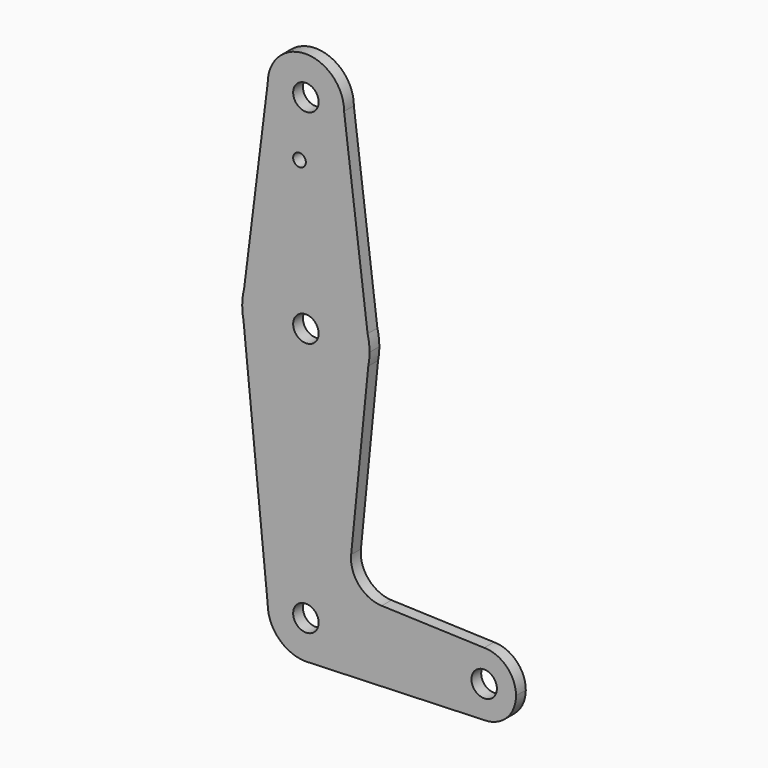
from build123d import *

# Parameters (mm, degrees)
F0_R     = 3.175
F0_R_2   = 1.5875
F1_DEPTH = 3.048


with BuildPart() as f1:
    # F0 (on Front) → F1 (new body)
    with BuildSketch(Plane.XZ):
        with BuildLine():
            ThreePointArc((-9.525, 114.3), (0, 104.775), (9.525, 114.3))
            ThreePointArc((9.525, 114.3), (0, 123.825), (-9.525, 114.3))
        make_face()
        with Locations((0, 114.3)):
            Circle(F0_R, mode=Mode.SUBTRACT)
        with BuildLine():
            Line((15.3865384615, 67.4076923077), (9.525, 114.3))
            ThreePointArc((9.525, 114.3), (0, 104.775), (-9.525, 114.3))
            Line((-9.525, 114.3), (-15.3865384615, 67.4076923077))
            ThreePointArc((-15.3865384615, 67.4076923077), (0, 79.375), (15.3865384615, 67.4076923077))
        make_face()
        with Locations((-1.5875, 100.0252)):
            Circle(F0_R_2, mode=Mode.SUBTRACT)
        with BuildLine():
            Line((15.875, 63.5), (15.3865384615, 67.4076923077))
            ThreePointArc((15.3865384615, 67.4076923077), (0, 79.375), (-15.3865384615, 67.4076923077))
            Line((-15.3865384615, 67.4076923077), (-15.875, 63.5))
            Line((-15.875, 63.5), (-15.5606435644, 60.3564356436))
            ThreePointArc((-15.5606435644, 60.3564356436), (0, 47.625), (15.5606435644, 60.3564356436))
            Line((15.5606435644, 60.3564356436), (15.875, 63.5))
        make_face()
        with Locations((0, 63.5)):
            Circle(F0_R, mode=Mode.SUBTRACT)
        with BuildLine():
            ThreePointArc((15.875, 63.5), (15.7524112928, 65.4690514116), (15.3865384615, 67.4076923077))
            Line((15.3865384615, 67.4076923077), (15.875, 63.5))
        make_face()
        with BuildLine():
            Line((-15.875, 63.5), (-15.3865384615, 67.4076923077))
            ThreePointArc((-15.3865384615, 67.4076923077), (-15.7524112928, 65.4690514116), (-15.875, 63.5))
        make_face()
        with BuildLine():
            ThreePointArc((15.5606435644, 60.3564356436), (15.7962153946, 61.9203784605), (15.875, 63.5))
            Line((15.875, 63.5), (15.5606435644, 60.3564356436))
        make_face()
        with BuildLine():
            Line((-15.5606435644, 60.3564356436), (-15.875, 63.5))
            ThreePointArc((-15.875, 63.5), (-15.7962153946, 61.9203784605), (-15.5606435644, 60.3564356436))
        make_face()
        with BuildLine():
            Line((11.2835831424, 17.5858314242), (15.5606435644, 60.3564356436))
            ThreePointArc((15.5606435644, 60.3564356436), (0, 47.625), (-15.5606435644, 60.3564356436))
            Line((-15.5606435644, 60.3564356436), (-9.525, 0))
            ThreePointArc((-9.525, 0), (0, 9.525), (9.525, 0))
            ThreePointArc((9.525, 0), (6.9712901065, -6.4905114784), (0.6794904459, -9.5007324841))
            Line((0.6794904459, -9.5007324841), (44.45, -7.9375))
            ThreePointArc((44.45, -7.9375), (36.5125, 0), (44.45, 7.9375))
            Line((44.45, 7.9375), (18.9105730062, 8.8496223926))
            ThreePointArc((18.9105730062, 8.8496223926), (13.2053552395, 11.5661923774), (11.2835831424, 17.5858314242))
        make_face()
        with BuildLine():
            ThreePointArc((9.525, 0), (0, 9.525), (-9.525, 0))
            ThreePointArc((-9.525, 0), (-6.7351920908, -6.7351920908), (0, -9.525))
            Line((0, -9.525), (0.6794904459, -9.5007324841))
            ThreePointArc((0.6794904459, -9.5007324841), (6.9712901065, -6.4905114784), (9.525, 0))
        make_face()
        Circle(F0_R, mode=Mode.SUBTRACT)
        with BuildLine():
            Line((0.6794904459, -9.5007324841), (0, -9.525))
            ThreePointArc((0, -9.525), (0.3399618281, -9.5189311877), (0.6794904459, -9.5007324841))
        make_face()
        with BuildLine():
            ThreePointArc((52.3875, 0), (50.0626600757, 5.6126600757), (44.45, 7.9375))
            ThreePointArc((44.45, 7.9375), (36.5125, 0), (44.45, -7.9375))
            ThreePointArc((44.45, -7.9375), (50.0626600757, -5.6126600757), (52.3875, 0))
        make_face()
        with Locations((44.45, 0)):
            Circle(F0_R, mode=Mode.SUBTRACT)
    extrude(amount=F1_DEPTH)


solid = f1.part
